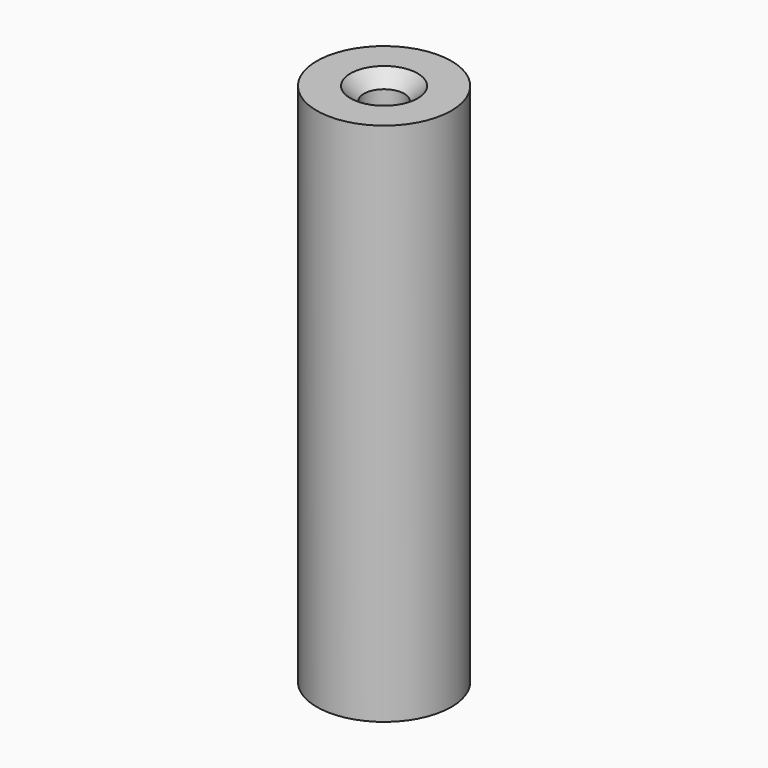
from build123d import *

# Parameters (mm, degrees)
SKETCH014_R     = 2.5
PAD003_DEPTH    = 19.5
SKETCH015_R     = 0.75
POCKET004_DEPTH = 5
CHAMFER_SIZE    = 0.5


with BuildPart() as part:
    # Sketch014 → Pad003 (new body)
    with BuildSketch(Plane.XY.offset(-6)):
        Circle(SKETCH014_R)
    extrude(amount=PAD003_DEPTH)

    # Sketch015 (on Face3 of Pad003) → Pocket004 (cut)
    with BuildSketch(Plane.XY.offset(13.5)):
        Circle(SKETCH015_R)
    extrude(amount=-POCKET004_DEPTH, mode=Mode.SUBTRACT)

    # Chamfer
    chamfer_edges = [part.edges().sort_by_distance(p)[0] for p in [
        (-0.75, 0, 13.5),
    ]]
    chamfer(chamfer_edges, length=CHAMFER_SIZE)


solid = part.part
